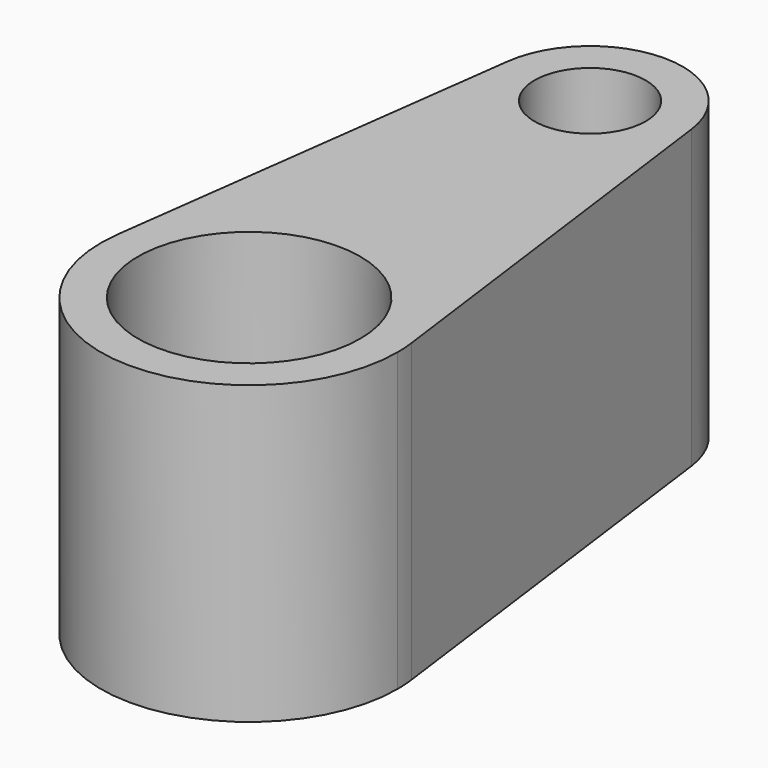
from build123d import *

# Parameters (mm, degrees)
F0_R     = 9.525
F0_R_2   = 4.7625
F1_DEPTH = 25.4


with BuildPart() as f1:
    # F0 (on Top) → F1 (new body)
    with BuildSketch(Plane.XY):
        with BuildLine():
            ThreePointArc((-12.591503, 1.656522), (-0.830036, -12.672847), (12.7, 0))
            ThreePointArc((12.7, 0), (12.672847, 0.830036), (12.591503, 1.656522))
            ThreePointArc((12.591503, 1.656522), (0, 12.7), (-12.591503, 1.656522))
        make_face()
        Circle(F0_R, mode=Mode.SUBTRACT)
        with BuildLine():
            ThreePointArc((-12.591503, 1.656522), (0, 12.7), (12.591503, 1.656522))
            Line((12.591503, 1.656522), (7.869689, 37.547826))
            ThreePointArc((7.869689, 37.547826), (7.920529, 37.031272), (7.9375, 36.5125))
            ThreePointArc((7.9375, 36.5125), (-0.518772, 28.591971), (-7.869689, 37.547826))
            Line((-7.869689, 37.547826), (-12.591503, 1.656522))
        make_face()
        with BuildLine():
            ThreePointArc((7.9375, 36.5125), (7.920529, 37.031272), (7.869689, 37.547826))
            ThreePointArc((7.869689, 37.547826), (0, 44.45), (-7.869689, 37.547826))
            ThreePointArc((-7.869689, 37.547826), (-0.518772, 28.591971), (7.9375, 36.5125))
        make_face()
        with Locations((0, 36.5125)):
            Circle(F0_R_2, mode=Mode.SUBTRACT)
    extrude(amount=F1_DEPTH)


solid = f1.part
